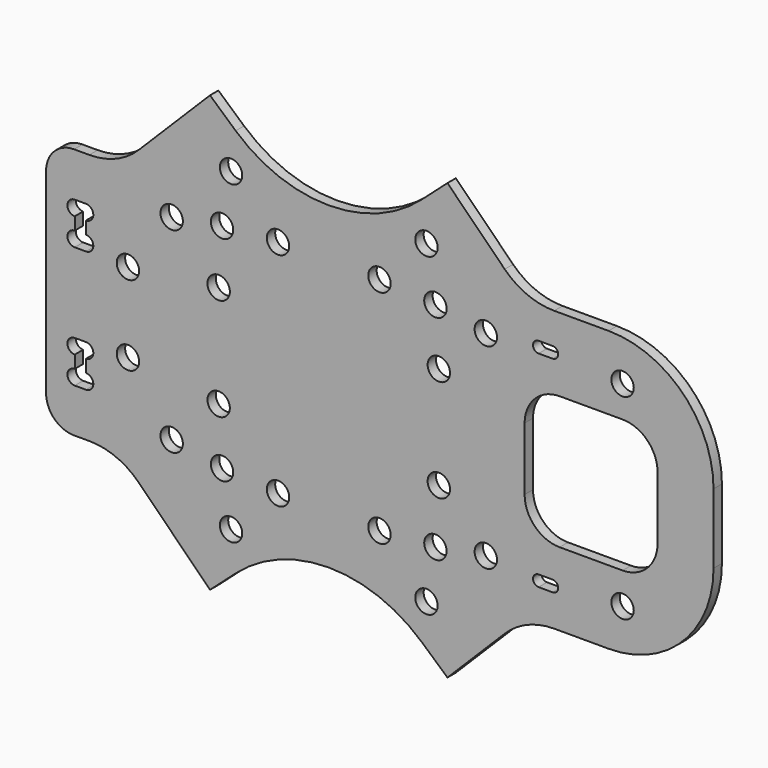
from build123d import *

# Parameters (mm, degrees)
F0_R     = 1.6
F1_DEPTH = 1.5


with BuildPart() as f1:
    # F0 (on Front) → F1 (new body)
    with BuildSketch(Plane.XZ):
        with BuildLine():
            Line((25.154329, 22.928932), (16.970563, 31.112698))
            Line((16.970563, 31.112698), (13.300916, 27.844789))
            ThreePointArc((13.300916, 27.844789), (0, 22.78084), (-13.300916, 27.844789))
            Line((-13.300916, 27.844789), (-16.970563, 31.112698))
            Line((-16.970563, 31.112698), (-27.154329, 20.928932))
            ThreePointArc((-27.154329, 20.928932), (-30.398562, 18.761205), (-34.225397, 18))
            Line((-34.225397, 18), (-36.4, 18))
            ThreePointArc((-36.4, 18), (-39.228427, 16.828427), (-40.4, 14))
            Line((-40.4, 14), (-40.4, 0))
            Line((-40.4, 0), (-40.4, -14))
            ThreePointArc((-40.4, -14), (-39.228427, -16.828427), (-36.4, -18))
            Line((-36.4, -18), (-34.225397, -18))
            ThreePointArc((-34.225397, -18), (-30.398562, -18.761205), (-27.154329, -20.928932))
            Line((-27.154329, -20.928932), (-16.970563, -31.112698))
            Line((-16.970563, -31.112698), (-13.300916, -27.844789))
            ThreePointArc((-13.300916, -27.844789), (0, -22.78084), (13.300916, -27.844789))
            Line((13.300916, -27.844789), (16.970563, -31.112698))
            Line((16.970563, -31.112698), (25.154329, -22.928932))
            ThreePointArc((25.154329, -22.928932), (28.398562, -20.761205), (32.225397, -20))
            Line((32.225397, -20), (40, -20))
            ThreePointArc((40, -20), (50.606602, -15.606602), (55, -5))
            Line((55, -5), (55, 0))
            Line((55, 0), (55, 5))
            ThreePointArc((55, 5), (50.606602, 15.606602), (40, 20))
            Line((40, 20), (32.225397, 20))
            ThreePointArc((32.225397, 20), (28.398562, 20.761205), (25.154329, 22.928932))
        make_face()
        with Locations((-13.966, -22.524)):
            Circle(F0_R, mode=Mode.SUBTRACT)
        with Locations((-7.249, -15.807)):
            Circle(F0_R, mode=Mode.SUBTRACT)
        with Locations((7.249, -15.807)):
            Circle(F0_R, mode=Mode.SUBTRACT)
        with BuildLine():
            ThreePointArc((-34.7, -9.6), (-33.65, -10.65), (-34.7, -11.7))
            Line((-34.7, -11.7), (-36.3, -11.7))
            ThreePointArc((-36.3, -11.7), (-37.35, -10.65), (-36.3, -9.6))
            Line((-36.3, -9.6), (-36.3, -7.8))
            ThreePointArc((-36.3, -7.8), (-37.35, -6.75), (-36.3, -5.7))
            Line((-36.3, -5.7), (-34.7, -5.7))
            ThreePointArc((-34.7, -5.7), (-33.65, -6.75), (-34.7, -7.8))
            Line((-34.7, -7.8), (-34.7, -9.6))
        make_face(mode=Mode.SUBTRACT)
        with Locations((-22.452, -14)):
            Circle(F0_R, mode=Mode.SUBTRACT)
        with Locations((-28.7, -5.7)):
            Circle(F0_R, mode=Mode.SUBTRACT)
        with Locations((-15.25, -15.25)):
            Circle(F0_R, mode=Mode.SUBTRACT)
        with Locations((-15.734, -7.322)):
            Circle(F0_R, mode=Mode.SUBTRACT)
        with Locations((13.966, -22.524)):
            Circle(F0_R, mode=Mode.SUBTRACT)
        with Locations((15.25, -15.25)):
            Circle(F0_R, mode=Mode.SUBTRACT)
        with Locations((22.452, -14)):
            Circle(F0_R, mode=Mode.SUBTRACT)
        with BuildLine():
            Line((30, -13.9), (32, -13.9))
            ThreePointArc((32, -13.9), (32.8, -14.7), (32, -15.5))
            Line((32, -15.5), (30, -15.5))
            ThreePointArc((30, -15.5), (29.2, -14.7), (30, -13.9))
        make_face(mode=Mode.SUBTRACT)
        with Locations((15.734, -7.322)):
            Circle(F0_R, mode=Mode.SUBTRACT)
        with Locations((42, -14)):
            Circle(F0_R, mode=Mode.SUBTRACT)
        with Locations((-28.7, 5.7)):
            Circle(F0_R, mode=Mode.SUBTRACT)
        with BuildLine():
            ThreePointArc((-34.7, 7.8), (-33.65, 6.75), (-34.7, 5.7))
            Line((-34.7, 5.7), (-36.3, 5.7))
            ThreePointArc((-36.3, 5.7), (-37.35, 6.75), (-36.3, 7.8))
            Line((-36.3, 7.8), (-36.3, 9.6))
            ThreePointArc((-36.3, 9.6), (-37.35, 10.65), (-36.3, 11.7))
            Line((-36.3, 11.7), (-34.7, 11.7))
            ThreePointArc((-34.7, 11.7), (-33.65, 10.65), (-34.7, 9.6))
            Line((-34.7, 9.6), (-34.7, 7.8))
        make_face(mode=Mode.SUBTRACT)
        with Locations((-22.452, 14)):
            Circle(F0_R, mode=Mode.SUBTRACT)
        with Locations((-15.734, 7.322)):
            Circle(F0_R, mode=Mode.SUBTRACT)
        with Locations((-15.25, 15.25)):
            Circle(F0_R, mode=Mode.SUBTRACT)
        with Locations((-7.249, 15.807)):
            Circle(F0_R, mode=Mode.SUBTRACT)
        with Locations((-13.966, 22.524)):
            Circle(F0_R, mode=Mode.SUBTRACT)
        with Locations((7.249, 15.807)):
            Circle(F0_R, mode=Mode.SUBTRACT)
        with Locations((15.734, 7.322)):
            Circle(F0_R, mode=Mode.SUBTRACT)
        with Locations((15.25, 15.25)):
            Circle(F0_R, mode=Mode.SUBTRACT)
        with Locations((22.452, 14)):
            Circle(F0_R, mode=Mode.SUBTRACT)
        with BuildLine():
            ThreePointArc((30, 13.9), (29.2, 14.7), (30, 15.5))
            Line((30, 15.5), (32, 15.5))
            ThreePointArc((32, 15.5), (32.8, 14.7), (32, 13.9))
            Line((32, 13.9), (30, 13.9))
        make_face(mode=Mode.SUBTRACT)
        with BuildLine():
            Line((28, -4.5), (28, 0))
            Line((28, 0), (28, 4.5))
            ThreePointArc((28, 4.5), (29.464466, 8.035534), (33, 9.5))
            Line((33, 9.5), (42, 9.5))
            ThreePointArc((42, 9.5), (45.535534, 8.035534), (47, 4.5))
            Line((47, 4.5), (47, 0))
            Line((47, 0), (47, -4.5))
            ThreePointArc((47, -4.5), (45.535534, -8.035534), (42, -9.5))
            Line((42, -9.5), (33, -9.5))
            ThreePointArc((33, -9.5), (29.464466, -8.035534), (28, -4.5))
        make_face(mode=Mode.SUBTRACT)
        with Locations((42, 14)):
            Circle(F0_R, mode=Mode.SUBTRACT)
        with Locations((13.966, 22.524)):
            Circle(F0_R, mode=Mode.SUBTRACT)
    extrude(amount=F1_DEPTH)


solid = f1.part
